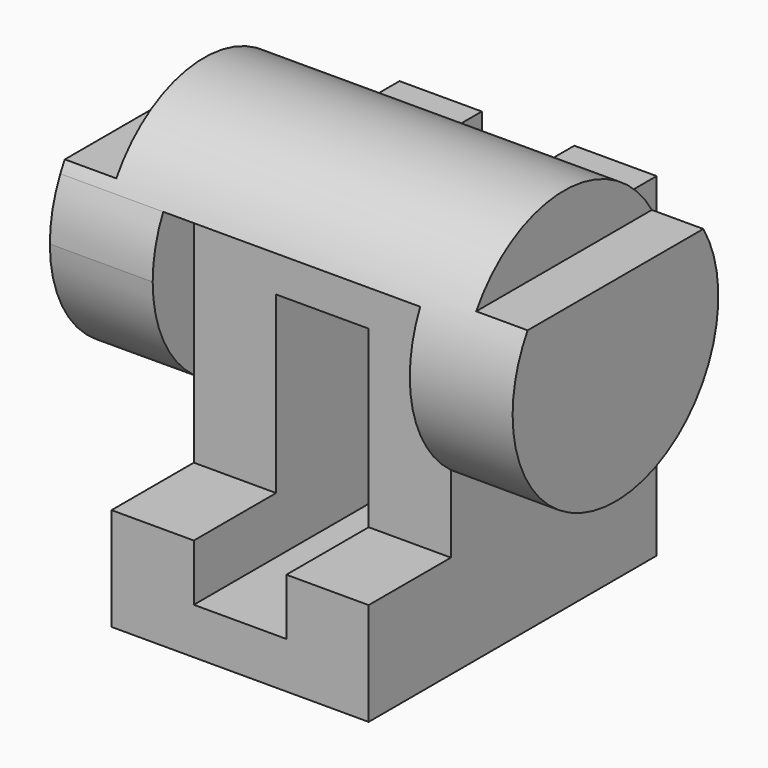
from build123d import *

# Parameters (mm, degrees)
F1_DEPTH  = 70
F2_W      = 16
F2_H      = 50
F3_DEPTH  = 45
F5_DEPTH  = 20
F6_DEPTH  = 90
F10_DEPTH = 10
F12_DEPTH = 10
F13_DEPTH = 20
F16_DEPTH = 50
F17_DEPTH = 25
F18_DEPTH = 5
F19_W     = 18
F19_H     = 19
F20_DEPTH = 50.001
F21_DEPTH = 5
F22_DEPTH = 20


with BuildPart() as f1:
    # F0 (on Front) → F1 (new body)
    with BuildSketch(Plane.XZ):
        Polygon((0, 20), (0, 0), (50, 0), (50, 20), (34, 20), (34, 9), (16, 9), (16, 20), align=None)
    extrude(amount=-F1_DEPTH)

    # F2 (on face) → F3 (join)
    with BuildSketch(Plane.XY.offset(20)):
        with Locations((8, 45)):
            Rectangle(F2_W, F2_H)
        with Locations((42, 45)):
            Rectangle(F2_W, F2_H)
    extrude(amount=F3_DEPTH)

    # F4 (on face) → F5 (join)
    with BuildSketch(Plane(origin=(0, 0, 0), x_dir=(0, -1, 0), z_dir=(-1, 0, 0))):
        with BuildLine():
            ThreePointArc((-20, 35), (-12.639320225, 43.8196601125), (-10, 55))
            ThreePointArc((-10, 55), (-29.8922589078, 79.4726578233), (-57.9128784748, 65))
            Line((-57.9128784748, 65), (-20, 65))
            Line((-20, 65), (-20, 35))
        make_face()
        with BuildLine():
            Line((-20, 65), (-57.9128784748, 65))
            ThreePointArc((-57.9128784748, 65), (-50.5130078141, 35.3952406656), (-20, 35))
            Line((-20, 35), (-20, 65))
        make_face()
    extrude(amount=F5_DEPTH)

    # F6 (add): a face of the model
    f6_faces = [f1.faces().sort_by_distance(p)[0] for p in [
        (-20, 35, 55),
    ]]
    extrude(f6_faces, amount=-F6_DEPTH)

    # F9 (on face) → F10 (cut)
    with BuildSketch(Plane(origin=(-20, 0, 0), x_dir=(0, -1, 0), z_dir=(-1, 0, 0))):
        with BuildLine():
            ThreePointArc((-13.6460271844, 68.0003017268), (-35, 80), (-56.3539728156, 68.0003017268))
            Line((-56.3539728156, 68.0003017268), (-13.6460271844, 68.0003017268))
        make_face()
    extrude(amount=-F10_DEPTH, mode=Mode.SUBTRACT)

    # F11 (on face) → F12 (cut)
    with BuildSketch(Plane.YZ.offset(70)):
        with BuildLine():
            ThreePointArc((56.3539728156, 68.0003017268), (35, 80), (13.6460271844, 68.0003017268))
            Line((13.6460271844, 68.0003017268), (56.3539728156, 68.0003017268))
        make_face()
    extrude(amount=-F12_DEPTH, mode=Mode.SUBTRACT)

    # F8 (on face) → F13 (cut)
    with BuildSketch(Plane(origin=(-20, 0, 0), x_dir=(0, -1, 0), z_dir=(-1, 0, 0))):
        with BuildLine():
            Line((-12.5433961203, 65.9863980535), (-35.1228261001, 65.9863980535))
            Line((-35.1228261001, 65.9863980535), (-35.1228261001, 30.0003017268))
            ThreePointArc((-35.1228261001, 30.0003017268), (-17.3658095239, 37.2789580935), (-10, 55))
            ThreePointArc((-10, 55), (-10.6441475514, 60.6384795383), (-12.5433961203, 65.9863980535))
        make_face()
        with BuildLine():
            Line((-35.1228261001, 30.0003017268), (-35.1228261001, 65.9863980535))
            Line((-35.1228261001, 65.9863980535), (-57.4566038797, 65.9863980535))
            ThreePointArc((-57.4566038797, 65.9863980535), (-56.2416441633, 41.816959636), (-35.1228261001, 30.0003017268))
        make_face()
    extrude(amount=-F13_DEPTH, mode=Mode.SUBTRACT)

    # F15 (on face) + F14 (on face) → F16 (cut)
    with BuildSketch(Plane(origin=(0, 0, 0), x_dir=(0, -1, 0), z_dir=(-1, 0, 0))):
        with BuildLine():
            Line((-70, 65), (-70, 35))
            Line((-70, 35), (-20, 35))
            Line((-20, 35), (-20, 65.9863980535))
            Line((-20, 65.9863980535), (-57.4566038797, 65.9863980535))
            ThreePointArc((-57.4566038797, 65.9863980535), (-57.6901019733, 65.4956787508), (-57.9128784748, 65))
            Line((-57.9128784748, 65), (-70, 65))
        make_face()
    with BuildSketch(Plane(origin=(0, 0, 0), x_dir=(0, -1, 0), z_dir=(-1, 0, 0))):
        with BuildLine():
            Line((-20, 65.9863980535), (-20, 35))
            ThreePointArc((-20, 35), (-12.639320225, 43.8196601125), (-10, 55))
            ThreePointArc((-10, 55), (-10.6441475514, 60.6384795383), (-12.5433961203, 65.9863980535))
            Line((-12.5433961203, 65.9863980535), (-20, 65.9863980535))
        make_face()
    extrude(amount=-F16_DEPTH, mode=Mode.SUBTRACT)

    # F17 (add): a face of the model
    f17_faces = [f1.faces().sort_by_distance(p)[0] for p in [
        (25, 42.476635514, 35),
    ]]
    extrude(f17_faces, amount=F17_DEPTH)

    # F18 (add): a face of the model
    f18_faces = [f1.faces().sort_by_distance(p)[0] for p in [
        (25, 42.476635514, 60),
    ]]
    extrude(f18_faces, amount=F18_DEPTH)

    # F19 (on face) → F20 (cut, through all)
    with BuildSketch(Plane.XZ.offset(-20)):
        with Locations((25, 44.5)):
            Rectangle(F19_W, F19_H)
    extrude(amount=-F20_DEPTH, mode=Mode.SUBTRACT)

    # F21 (cut, through all): a face of the model
    f21_faces = [f1.faces().sort_by_distance(p)[0] for p in [
        (25, 35, 35),
    ]]
    extrude(f21_faces, amount=-F21_DEPTH, mode=Mode.SUBTRACT)

    # F7 (on face) → F22 (join)
    with BuildSketch(Plane(origin=(-20, 0, 0), x_dir=(0, -1, 0), z_dir=(-1, 0, 0))):
        with BuildLine():
            Line((-12.5433961203, 65.9863980535), (-57.4566038797, 65.9863980535))
            ThreePointArc((-57.4566038797, 65.9863980535), (-40.6384795383, 30.6441475514), (-10, 55))
            ThreePointArc((-10, 55), (-10.6441475514, 60.6384795383), (-12.5433961203, 65.9863980535))
        make_face()
    extrude(amount=-F22_DEPTH)


solid = f1.part
